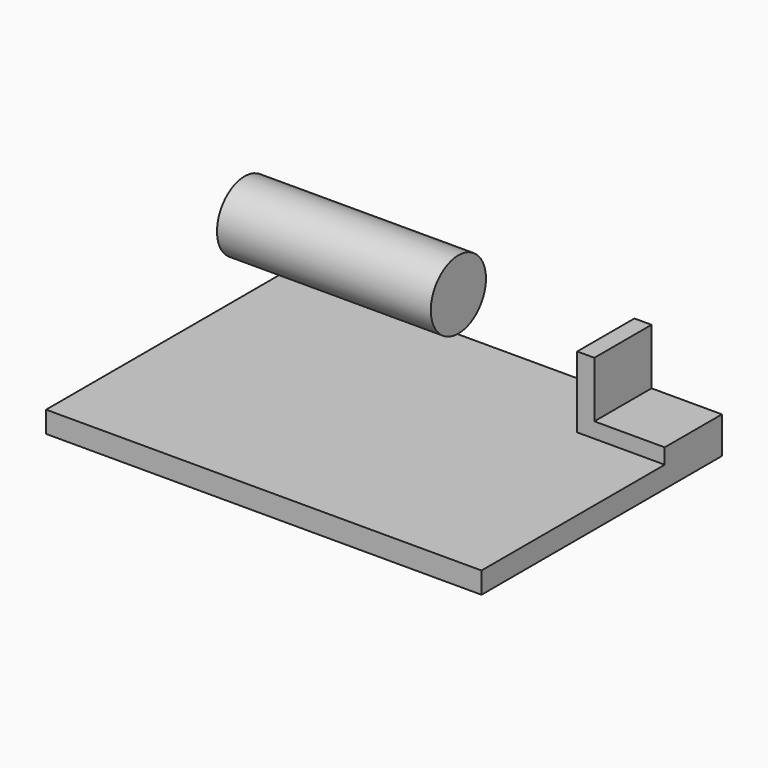
from build123d import *

# Parameters (mm, degrees)
F0_W     = 155.178524
F0_H     = 107.098825
F1_DEPTH = 7.62
F2_W     = 25.083244
F2_H     = 25.47501
F3_DEPTH = 5.461
F4_W     = 6.101377
F4_H     = 25.47501
F5_DEPTH = 25.4
F6_R     = 12.287364
F7_DEPTH = 76.2


with BuildPart() as f1:
    # F0 (on Top) → F1 (new body)
    with BuildSketch(Plane.XY):
        with Locations((-7.984396, 3.724526)):
            Rectangle(F0_W, F0_H)
    extrude(amount=F1_DEPTH)

    # F2 (on face) → F3 (join)
    with BuildSketch(Plane.XY.offset(7.62)):
        with Locations((57.063244, 44.536434)):
            Rectangle(F2_W, F2_H)
    extrude(amount=F3_DEPTH)

    # F4 (on face) → F5 (join)
    with BuildSketch(Plane.XY.offset(7.62)):
        with Locations((41.470934, 44.536434)):
            Rectangle(F4_W, F4_H)
    extrude(amount=F5_DEPTH)


with BuildPart() as f7:
    # F6 (on Right) → F7 (new body)
    with BuildSketch(Plane.YZ):
        with Locations((26.878372, 40.416453)):
            Circle(F6_R)
    extrude(amount=-F7_DEPTH)


solid = Compound([f1.part, f7.part])
